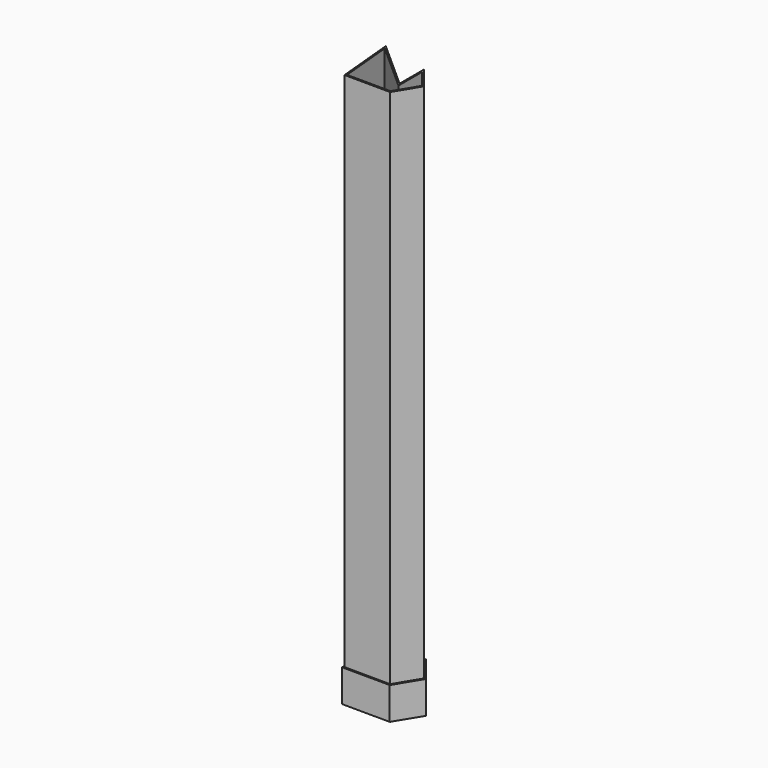
from build123d import *

# Parameters (mm, degrees)
F1_DEPTH = 56.642
F2_T     = -2.54
F3_DEPTH = 964.946
F4_T     = -2.54
F5_DEPTH = 25.4


with BuildPart() as f1:
    # F0 (on Top) → F1 (new body)
    with BuildSketch(Plane.XY):
        Polygon((-67.4327090383, 58.0582357943), (-57.1041107178, -52.6384785771), (26.6108643264, -53.1400032341), (53.9143458009, -8.2113463432), (17.0889906585, 37.5968702137), (17.0889906585, -17.2638874501), align=None)
    extrude(amount=F1_DEPTH)

    # F2
    f2_openings = [f1.faces().sort_by_distance(p)[0] for p in [
        (-14.363831, -12.367538, 56.642),
    ]]
    offset(amount=F2_T, openings=f2_openings, kind=Kind.INTERSECTION)

    # F3 (add): a face of the model
    f3_faces = [f1.faces().sort_by_distance(p)[0] for p in [
        (-14.8087693104, -13.6414291388, 2.54),
    ]]
    extrude(f3_faces, amount=F3_DEPTH)

    # F4
    f4_openings = [f1.faces().sort_by_distance(p)[0] for p in [
        (-14.808769, -13.641429, 967.486),
    ]]
    offset(amount=F4_T, openings=f4_openings, kind=Kind.INTERSECTION)

    # F0 (on Top) + F4_face (on face) → F5 (join)
    with BuildSketch(Plane.XY):
        Polygon((-67.4327090383, 58.0582357943), (-57.1041107178, -52.6384785771), (26.6108643264, -53.1400032341), (53.9143458009, -8.2113463432), (17.0889906585, 37.5968702137), (17.0889906585, -17.2638874501), align=None)
    with BuildSketch(Plane(origin=(-14.8087693104, -13.6414291388, 2.54), x_dir=(1, 0, 0), z_dir=(0, 0, 1))):
        Polygon((34.4377599689, -9.2882337449), (-49.4953159873, 65.509333201), (-39.980014566, -36.4708746559), (39.9961774627, -36.950000789), (65.6274259115, 5.2269490011), (34.4377599689, 44.024754652), align=None)
    extrude(amount=F5_DEPTH)


solid = f1.part
